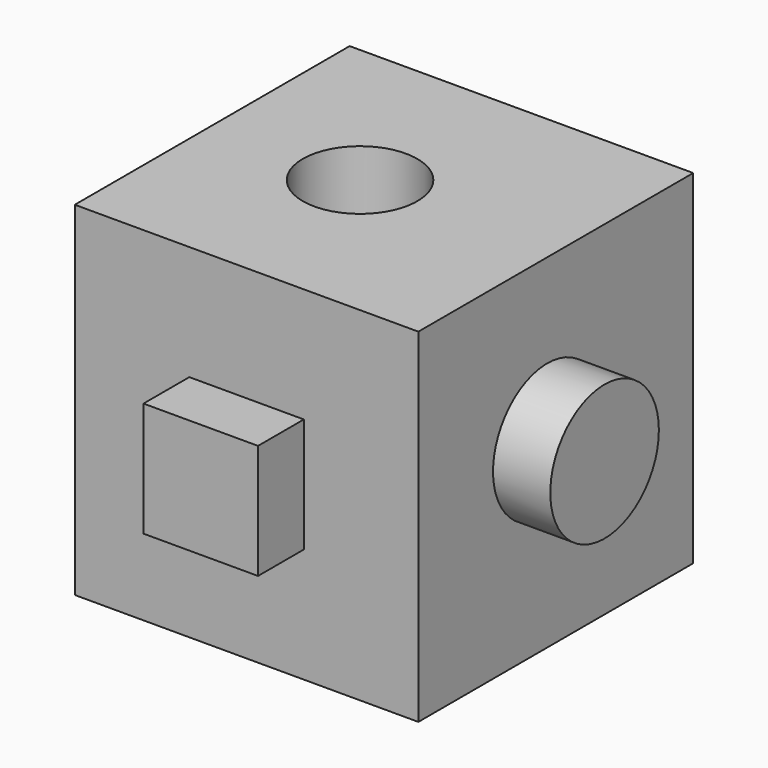
from build123d import *

# Parameters (mm, degrees)
F0_W     = 76.2
F0_H     = 76.2
F1_DEPTH = 76.2
F2_W     = 25.4
F2_H     = 25.4
F3_DEPTH = 12.7
F5_D     = 25.4
F6_R     = 15.048086
F7_DEPTH = 12.7


with BuildPart() as f1:
    # F0 (on Front) → F1 (new body)
    with BuildSketch(Plane.XZ):
        with Locations((5.308721, 14.755955)):
            Rectangle(F0_W, F0_H)
    extrude(amount=F1_DEPTH)

    # F2 (on face) → F3 (join)
    with BuildSketch(Plane.XZ.offset(76.2)):
        with Locations((5.308721, 14.755955)):
            Rectangle(F2_W, F2_H)
    extrude(amount=F3_DEPTH)

    # F5 (through all)
    with Locations(Plane.XY.offset(52.855955)):
        with Locations((0, -38.1)):
            Hole(F5_D / 2)

    # F6 (on face) → F7 (join)
    with BuildSketch(Plane.YZ.offset(43.408721)):
        with Locations((-40.448086, 17.104041)):
            Circle(F6_R)
    extrude(amount=F7_DEPTH)


solid = f1.part
